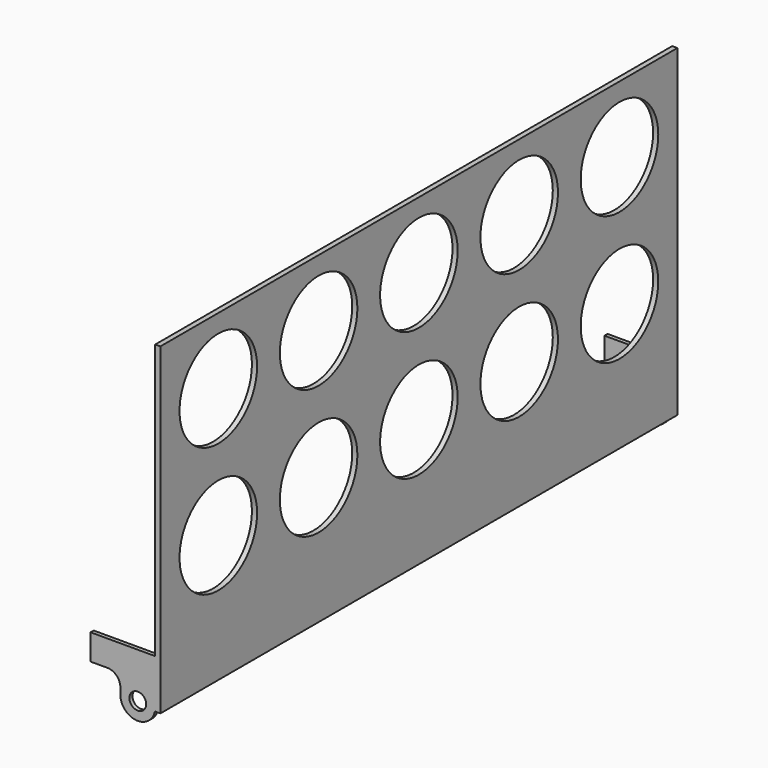
from build123d import *

# Parameters (mm, degrees)
F0_R     = 6.5
F1_DEPTH = 250
F2_W     = 494
F2_H     = 100
F3_DEPTH = 100
F4_R     = 10
F5_W     = 500
F5_H     = 250
F6_DEPTH = 4
F7_R     = 37.5
F8_DEPTH = 25


with BuildPart() as f1:
    # F0 (on Front) → F1 (new body, symmetric)
    with BuildSketch(Plane.XZ):
        with BuildLine():
            Line((-13.5, 15), (-13.5, 0))
            ThreePointArc((-13.5, 0), (-1.356871, -13.431638), (13.227245, -2.7))
            Line((13.227245, -2.7), (13.5, -2.7))
            Line((13.5, -2.7), (13.5, 15))
            Line((13.5, 15), (13.5, 35))
            Line((13.5, 35), (-36.5, 35))
            Line((-36.5, 35), (-36.5, 15))
            Line((-36.5, 15), (-13.5, 15))
        make_face()
        Circle(F0_R, mode=Mode.SUBTRACT)
    extrude(amount=F1_DEPTH, both=True)

    # F2 (on face) → F3 (cut)
    with BuildSketch(Plane.YZ.offset(13.5)):
        Rectangle(F2_W, F2_H)
    extrude(amount=-F3_DEPTH, mode=Mode.SUBTRACT)

    # F4
    f4_edges = [f1.edges().sort_by_distance(p)[0] for p in [
        (-13.5, 248.5, 15),
        (-13.5, -248.5, 15),
    ]]
    fillet(f4_edges, radius=F4_R)

    # F5 (on face) → F6 (join)
    with BuildSketch(Plane.YZ.offset(13.5)):
        with Locations((0, 122.3)):
            Rectangle(F5_W, F5_H)
    extrude(amount=F6_DEPTH)

    # F7 (on face) → F8 (cut)
    with BuildSketch(Plane.YZ.offset(17.5)):
        with Locations((-194, 95.8)):
            Circle(F7_R)
        with Locations((-194, 195.8)):
            Circle(F7_R)
        with Locations((-97, 95.8)):
            Circle(F7_R)
        with Locations((-97, 195.8)):
            Circle(F7_R)
        with Locations((0, 95.8)):
            Circle(F7_R)
        with Locations((0, 195.8)):
            Circle(F7_R)
        with Locations((97, 95.8)):
            Circle(F7_R)
        with Locations((97, 195.8)):
            Circle(F7_R)
        with Locations((194, 95.8)):
            Circle(F7_R)
        with Locations((194, 195.8)):
            Circle(F7_R)
    extrude(amount=-F8_DEPTH, mode=Mode.SUBTRACT)


solid = f1.part
